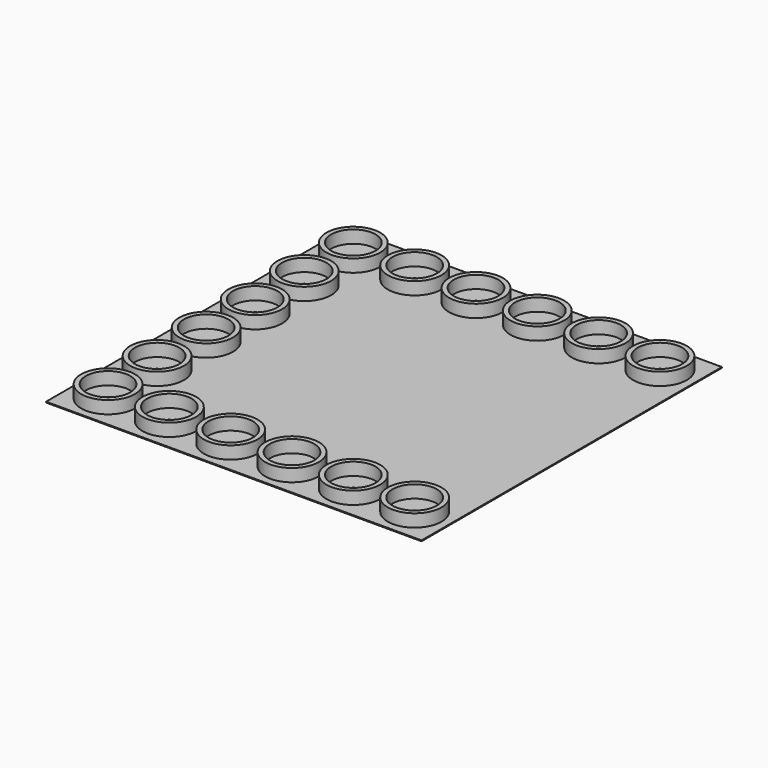
from build123d import *

# Parameters (mm, degrees)
F0_W     = 709.168
F0_H     = 709.168
F0_R     = 50.8
F1_DEPTH = 1.5875
F0_R_2   = 41.91
F2_DEPTH = 25.4
F0_R_3   = 4.826
F3_DEPTH = 1.5875
F4_DEPTH = 25.4


with BuildPart() as f1:
    # F0 (on Top) → F1 (new body)
    with BuildSketch(Plane.XY):
        Rectangle(F0_W, F0_H)
        with Locations((-289.56, -289.56)):
            Circle(F0_R, mode=Mode.SUBTRACT)
        with Locations((-173.736, -289.56)):
            Circle(F0_R, mode=Mode.SUBTRACT)
        with Locations((-57.912, -289.56)):
            Circle(F0_R, mode=Mode.SUBTRACT)
        with Locations((-289.56, -173.736)):
            Circle(F0_R, mode=Mode.SUBTRACT)
        with Locations((-289.56, -57.912)):
            Circle(F0_R, mode=Mode.SUBTRACT)
        with Locations((57.912, -289.56)):
            Circle(F0_R, mode=Mode.SUBTRACT)
        with Locations((173.736, -289.56)):
            Circle(F0_R, mode=Mode.SUBTRACT)
        with Locations((289.56, -289.56)):
            Circle(F0_R, mode=Mode.SUBTRACT)
        with Locations((-289.56, 57.912)):
            Circle(F0_R, mode=Mode.SUBTRACT)
        with Locations((-289.56, 173.736)):
            Circle(F0_R, mode=Mode.SUBTRACT)
        with Locations((-289.56, 289.56)):
            Circle(F0_R, mode=Mode.SUBTRACT)
        with Locations((-173.736, 289.56)):
            Circle(F0_R, mode=Mode.SUBTRACT)
        with Locations((-57.912, 289.56)):
            Circle(F0_R, mode=Mode.SUBTRACT)
        with Locations((57.912, 289.56)):
            Circle(F0_R, mode=Mode.SUBTRACT)
        with Locations((173.736, 289.56)):
            Circle(F0_R, mode=Mode.SUBTRACT)
        with Locations((289.56, 289.56)):
            Circle(F0_R, mode=Mode.SUBTRACT)
    extrude(amount=F1_DEPTH)

    # F0 (on Top) → F2 (join)
    with BuildSketch(Plane.XY):
        with Locations((-173.736, 289.56)):
            Circle(F0_R)
        with Locations((-173.736, 289.56)):
            Circle(F0_R_2, mode=Mode.SUBTRACT)
    extrude(amount=F2_DEPTH)

    # F0 (on Top) → F3 (join)
    with BuildSketch(Plane.XY):
        with Locations((-289.56, 289.56)):
            Circle(F0_R_2)
        with Locations((-289.56, 289.56)):
            Circle(F0_R_3, mode=Mode.SUBTRACT)
        with Locations((-173.736, 289.56)):
            Circle(F0_R_2)
        with Locations((-173.736, 289.56)):
            Circle(F0_R_3, mode=Mode.SUBTRACT)
        with Locations((-57.912, 289.56)):
            Circle(F0_R_2)
        with Locations((-57.912, 289.56)):
            Circle(F0_R_3, mode=Mode.SUBTRACT)
        with Locations((57.912, 289.56)):
            Circle(F0_R_2)
        with Locations((57.912, 289.56)):
            Circle(F0_R_3, mode=Mode.SUBTRACT)
        with Locations((173.736, 289.56)):
            Circle(F0_R_2)
        with Locations((173.736, 289.56)):
            Circle(F0_R_3, mode=Mode.SUBTRACT)
        with Locations((-289.56, 173.736)):
            Circle(F0_R_2)
        with Locations((-289.56, 173.736)):
            Circle(F0_R_3, mode=Mode.SUBTRACT)
        with Locations((-289.56, 57.912)):
            Circle(F0_R_2)
        with Locations((-289.56, 57.912)):
            Circle(F0_R_3, mode=Mode.SUBTRACT)
        with Locations((-289.56, -57.912)):
            Circle(F0_R_2)
        with Locations((-289.56, -57.912)):
            Circle(F0_R_3, mode=Mode.SUBTRACT)
        with Locations((-289.56, -173.736)):
            Circle(F0_R_2)
        with Locations((-289.56, -173.736)):
            Circle(F0_R_3, mode=Mode.SUBTRACT)
        with Locations((-173.736, -289.56)):
            Circle(F0_R_2)
        with Locations((-173.736, -289.56)):
            Circle(F0_R_3, mode=Mode.SUBTRACT)
        with Locations((-289.56, -289.56)):
            Circle(F0_R_2)
        with Locations((-289.56, -289.56)):
            Circle(F0_R_3, mode=Mode.SUBTRACT)
        with Locations((-57.912, -289.56)):
            Circle(F0_R_2)
        with Locations((-57.912, -289.56)):
            Circle(F0_R_3, mode=Mode.SUBTRACT)
        with Locations((57.912, -289.56)):
            Circle(F0_R_2)
        with Locations((57.912, -289.56)):
            Circle(F0_R_3, mode=Mode.SUBTRACT)
        with Locations((173.736, -289.56)):
            Circle(F0_R_2)
        with Locations((173.736, -289.56)):
            Circle(F0_R_3, mode=Mode.SUBTRACT)
        with Locations((289.56, -289.56)):
            Circle(F0_R_2)
        with Locations((289.56, -289.56)):
            Circle(F0_R_3, mode=Mode.SUBTRACT)
        with Locations((289.56, 289.56)):
            Circle(F0_R_2)
        with Locations((289.56, 289.56)):
            Circle(F0_R_3, mode=Mode.SUBTRACT)
    extrude(amount=F3_DEPTH)


with BuildPart() as f4:
    # F0 (on Top) → F4 (new body)
    with BuildSketch(Plane.XY):
        with Locations((-289.56, 289.56)):
            Circle(F0_R)
        with Locations((-289.56, 289.56)):
            Circle(F0_R_2, mode=Mode.SUBTRACT)
        with Locations((-57.912, 289.56)):
            Circle(F0_R)
        with Locations((-57.912, 289.56)):
            Circle(F0_R_2, mode=Mode.SUBTRACT)
        with Locations((57.912, 289.56)):
            Circle(F0_R)
        with Locations((57.912, 289.56)):
            Circle(F0_R_2, mode=Mode.SUBTRACT)
        with Locations((-289.56, 173.736)):
            Circle(F0_R)
        with Locations((-289.56, 173.736)):
            Circle(F0_R_2, mode=Mode.SUBTRACT)
        with Locations((-289.56, 57.912)):
            Circle(F0_R)
        with Locations((-289.56, 57.912)):
            Circle(F0_R_2, mode=Mode.SUBTRACT)
        with Locations((-289.56, -57.912)):
            Circle(F0_R)
        with Locations((-289.56, -57.912)):
            Circle(F0_R_2, mode=Mode.SUBTRACT)
        with Locations((173.736, 289.56)):
            Circle(F0_R)
        with Locations((173.736, 289.56)):
            Circle(F0_R_2, mode=Mode.SUBTRACT)
        with Locations((289.56, 289.56)):
            Circle(F0_R)
        with Locations((289.56, 289.56)):
            Circle(F0_R_2, mode=Mode.SUBTRACT)
        with Locations((-289.56, -173.736)):
            Circle(F0_R)
        with Locations((-289.56, -173.736)):
            Circle(F0_R_2, mode=Mode.SUBTRACT)
        with Locations((-289.56, -289.56)):
            Circle(F0_R)
        with Locations((-289.56, -289.56)):
            Circle(F0_R_2, mode=Mode.SUBTRACT)
        with Locations((-173.736, -289.56)):
            Circle(F0_R)
        with Locations((-173.736, -289.56)):
            Circle(F0_R_2, mode=Mode.SUBTRACT)
        with Locations((-57.912, -289.56)):
            Circle(F0_R)
        with Locations((-57.912, -289.56)):
            Circle(F0_R_2, mode=Mode.SUBTRACT)
        with Locations((57.912, -289.56)):
            Circle(F0_R)
        with Locations((57.912, -289.56)):
            Circle(F0_R_2, mode=Mode.SUBTRACT)
        with Locations((173.736, -289.56)):
            Circle(F0_R)
        with Locations((173.736, -289.56)):
            Circle(F0_R_2, mode=Mode.SUBTRACT)
        with Locations((289.56, -289.56)):
            Circle(F0_R)
        with Locations((289.56, -289.56)):
            Circle(F0_R_2, mode=Mode.SUBTRACT)
    extrude(amount=F4_DEPTH)


solid = Compound([f1.part, f4.part])
